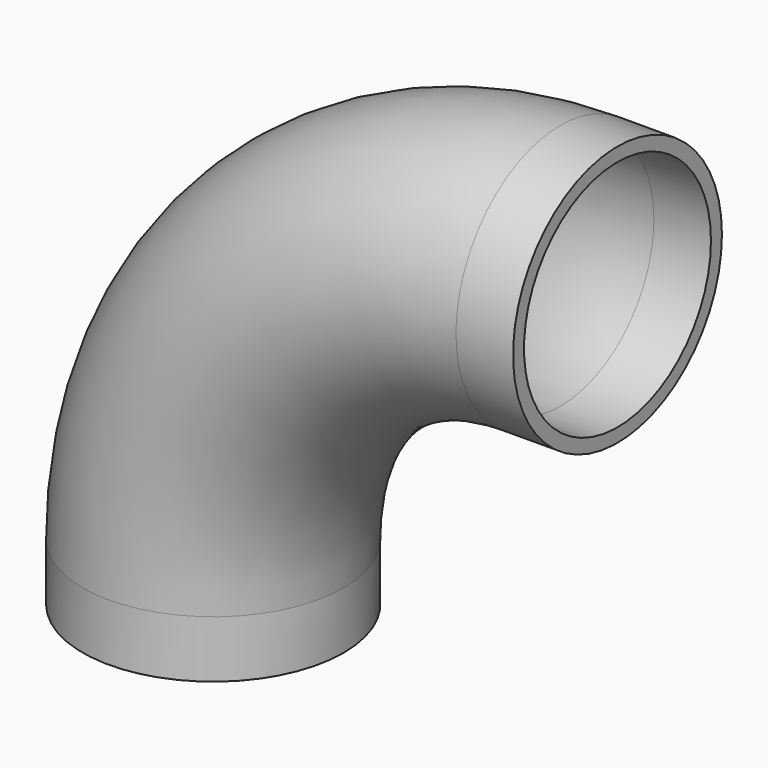
from build123d import *

# Parameters (mm, degrees)
F0_R     = 57.15
F3_T     = -6
F4_DEPTH = 25
F5_R     = 57.15
F5_R_2   = 51.15
F6_DEPTH = 25


with BuildPart() as f2:
    # F2: sweep along a path in F1
    with BuildLine(Plane.XZ) as f2_path:
        ThreePointArc((152, 152), (44.5197692596, 107.4802307404), (0, 0))
    # F0 (on Top) → F2 (sweep)
    with BuildSketch(Plane.XY):
        Circle(F0_R)
    sweep(path=f2_path.line)

    # F3
    f3_openings = [f2.faces().sort_by_distance(p)[0] for p in [
        (152, 0, 152),
        (0, 0, 0),
    ]]
    offset(amount=F3_T, openings=f3_openings, kind=Kind.INTERSECTION)

    # F0 (on Top) → F4 (join)
    with BuildSketch(Plane.XY):
        Circle(F0_R)
    extrude(amount=-F4_DEPTH)

    # F5 (on face) → F6 (join)
    with BuildSketch(Plane.YZ.offset(152)):
        with Locations((0, 152)):
            Circle(F5_R)
        with Locations((0, 152)):
            Circle(F5_R_2, mode=Mode.SUBTRACT)
    extrude(amount=F6_DEPTH)


solid = f2.part
